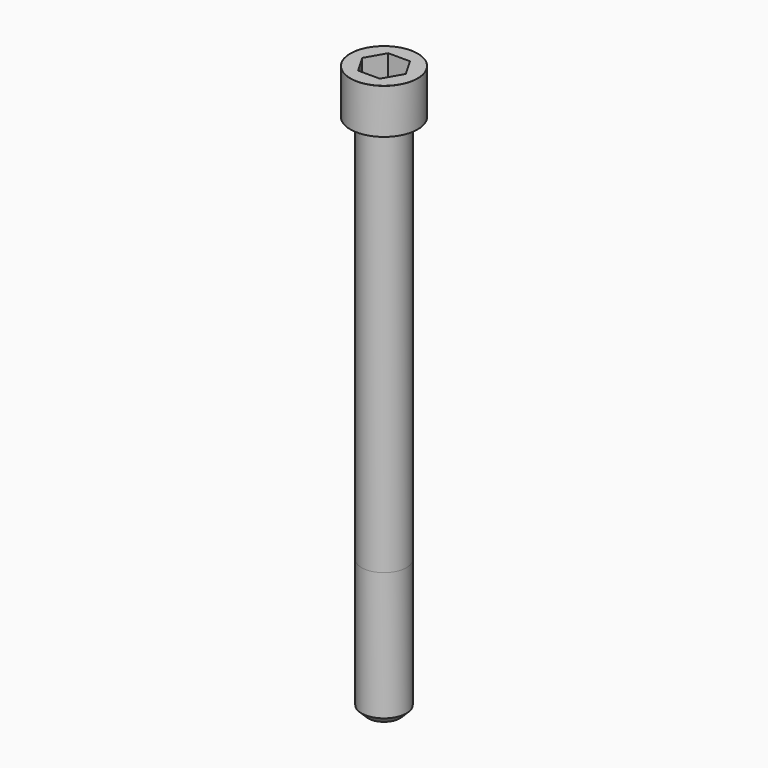
from build123d import *

# Parameters (mm, degrees)
POCKET_DEPTH = 10.07


with BuildPart() as part:
    # Sketch → Revolve (revolve)
    with BuildSketch(Plane.YZ):
        with BuildLine():
            Line((5.999, 0), (9, 0))
            Line((9, 0), (9, 11.97229))
            ThreePointArc((9, 11.97229), (8.991884, 11.991884), (8.97229, 12))
            Line((8.97229, 12), (0, 12))
            Line((0, -140), (0, 12))
            Line((4.25, -140), (0, -140))
            Line((6, -138.25), (4.25, -140))
            Line((6, -104), (6, -138.25))
            Line((5.999, 0), (6, -104))
        make_face()
    revolve(axis=Axis((0, 0, 0), (0, 0, 1)))

    # Sketch001 → Pocket (cut)
    with BuildSketch(Plane.XY.offset(12)):
        Polygon((5.813917, 0), (2.906959, 5.035), (-2.906959, 5.035), (-5.813917, 0), (-2.906959, -5.035), (2.906959, -5.035), align=None)
    extrude(amount=-POCKET_DEPTH, mode=Mode.SUBTRACT)


solid = part.part
